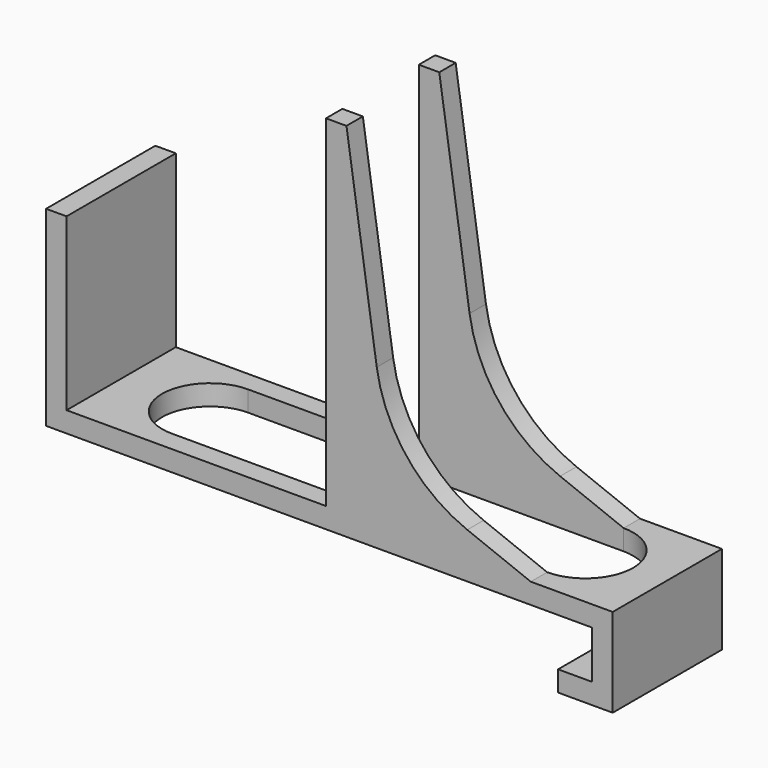
from build123d import *

# Parameters (mm, degrees)
SKETCH_W        = 83
SKETCH_H        = 20
PAD_DEPTH       = 3
SKETCH001_W     = 3
SKETCH001_H     = 20
PAD001_DEPTH    = 25
SKETCH002_W     = 30
SKETCH002_H     = 20
PAD002_DEPTH    = 50
POCKET_DEPTH    = 20.001
POCKET001_DEPTH = 53.001
SKETCH006_W     = 3
SKETCH006_H     = 20
PAD003_DEPTH    = 10
SKETCH007_W     = 20
SKETCH007_H     = 3
PAD004_DEPTH    = 5


with BuildPart() as part:
    # Sketch → Pad (new body)
    with BuildSketch(Plane.XY):
        Rectangle(SKETCH_W, SKETCH_H)
    extrude(amount=PAD_DEPTH)

    # Sketch001 → Pad001 (new body)
    with BuildSketch(Plane.XY.offset(3)):
        with Locations((-40, 0)):
            Rectangle(SKETCH001_W, SKETCH001_H)
    extrude(amount=PAD001_DEPTH)

    # Sketch002 → Pad002 (new body)
    with BuildSketch(Plane.XY.offset(3)):
        with Locations((14.5, 0)):
            Rectangle(SKETCH002_W, SKETCH002_H)
    extrude(amount=PAD002_DEPTH)

    # Sketch004 → Pocket (cut, through all)
    with BuildSketch(Plane.XZ.offset(10)):
        with BuildLine():
            Line((2.5, 53), (6.936769, 23.329896))
            ThreePointArc((6.936769, 23.329896), (11.333368, 13.220729), (20.195517, 6.664232))
            Line((20.195517, 6.664232), (29.5, 3))
            Line((63.265705, 66.309877), (29.5, 3))
            Line((2.5, 53), (63.265705, 66.309877))
        make_face()
    extrude(amount=-POCKET_DEPTH, mode=Mode.SUBTRACT)

    # Sketch005 → Pocket001 (cut, through all)
    with BuildSketch(Plane(origin=(0, 0, 0), x_dir=(1, 0, 0), z_dir=(0, 0, -1))):
        with BuildLine():
            ThreePointArc((-25.5, 7), (-32.5, 0), (-25.5, -7))
            Line((-25.5, -7), (29.5, -7))
            ThreePointArc((29.5, -7), (36.5, 0), (29.5, 7))
            Line((-25.5, 7), (29.5, 7))
        make_face()
    extrude(amount=-POCKET001_DEPTH, mode=Mode.SUBTRACT)

    # Sketch006 → Pad003 (new body)
    with BuildSketch(Plane(origin=(0, 0, 0), x_dir=(1, 0, 0), z_dir=(0, 0, -1))):
        with Locations((40, 0)):
            Rectangle(SKETCH006_W, SKETCH006_H)
    extrude(amount=PAD003_DEPTH)

    # Sketch007 → Pad004 (new body)
    with BuildSketch(Plane(origin=(38.5, 0, 0), x_dir=(0, -1, 0), z_dir=(-1, 0, 0))):
        with Locations((0, -8.5)):
            Rectangle(SKETCH007_W, SKETCH007_H)
    extrude(amount=PAD004_DEPTH)


solid = part.part
